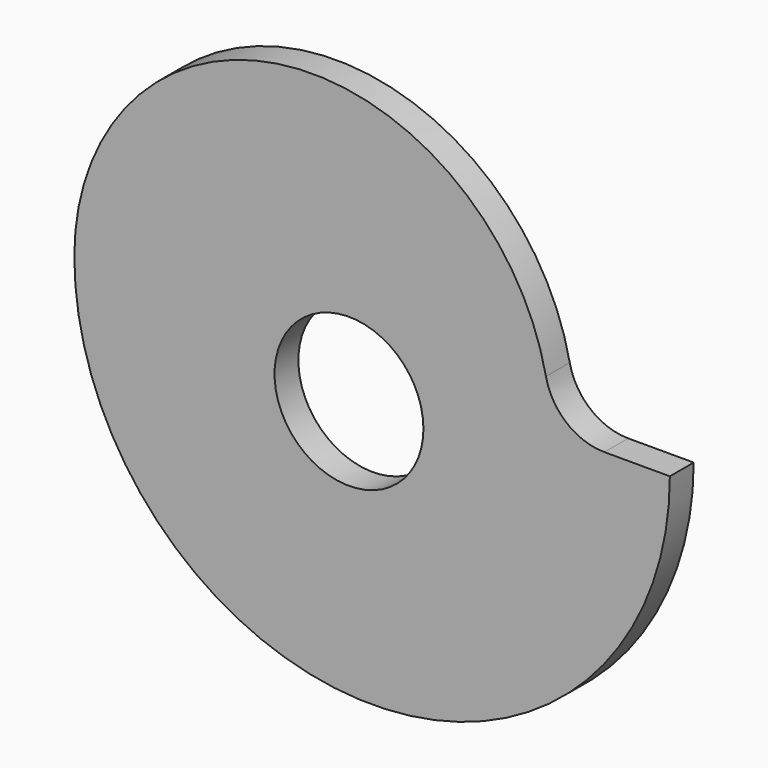
from build123d import *

# Parameters (mm, degrees)
F0_R     = 7.9375
F1_DEPTH = 3.175


with BuildPart() as f1:
    # F0 (on Front) → F1 (new body)
    with BuildSketch(Plane.XZ):
        with BuildLine():
            ThreePointArc((18.536816, 5.08), (-8.902928, 25.271378), (-31.75, 0))
            ThreePointArc((-31.75, 0), (0, -31.75), (31.75, 0))
            Line((31.75, 0), (24.75852, 0))
            ThreePointArc((24.75852, 0), (20.742427, 1.431311), (18.536816, 5.08))
        make_face()
        with Locations((-2.4638, -4.0894)):
            Circle(F0_R, mode=Mode.SUBTRACT)
    extrude(amount=F1_DEPTH)


solid = f1.part
